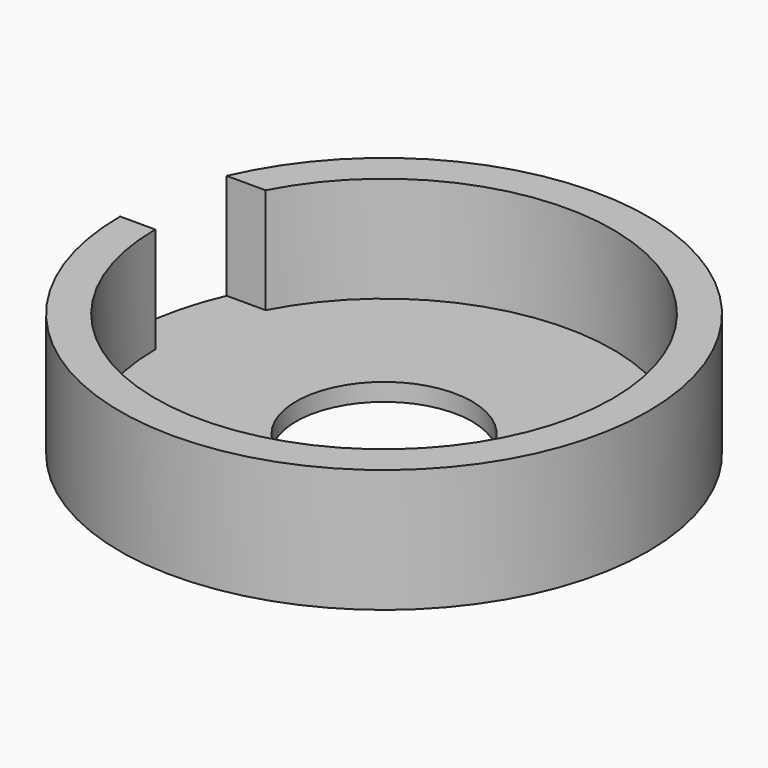
from build123d import *

# Parameters (mm, degrees)
SKETCH_R        = 15
PAD_DEPTH       = 7
SKETCH001_R     = 13
POCKET_DEPTH    = 6
SKETCH002_W     = 4.722303
SKETCH002_H     = 6
POCKET001_DEPTH = 6
SKETCH003_R     = 5
POCKET002_DEPTH = 1.001


with BuildPart() as part:
    # Sketch → Pad (new body)
    with BuildSketch(Plane.XY):
        Circle(SKETCH_R)
    extrude(amount=PAD_DEPTH)

    # Sketch001 (on Face3 of Pad) → Pocket (cut)
    with BuildSketch(Plane.XY.offset(7)):
        Circle(SKETCH001_R)
    extrude(amount=-POCKET_DEPTH, mode=Mode.SUBTRACT)

    # Sketch002 (on Face3 of Pocket) → Pocket001 (cut)
    with BuildSketch(Plane.XY.offset(7)):
        with Locations((-13.693224, 3)):
            Rectangle(SKETCH002_W, SKETCH002_H)
    extrude(amount=-POCKET001_DEPTH, mode=Mode.SUBTRACT)

    # Sketch003 (on Face10 of Pocket001) → Pocket002 (cut, through all)
    with BuildSketch(Plane.XY.offset(1)):
        Circle(SKETCH003_R)
    extrude(amount=-POCKET002_DEPTH, mode=Mode.SUBTRACT)


solid = part.part
